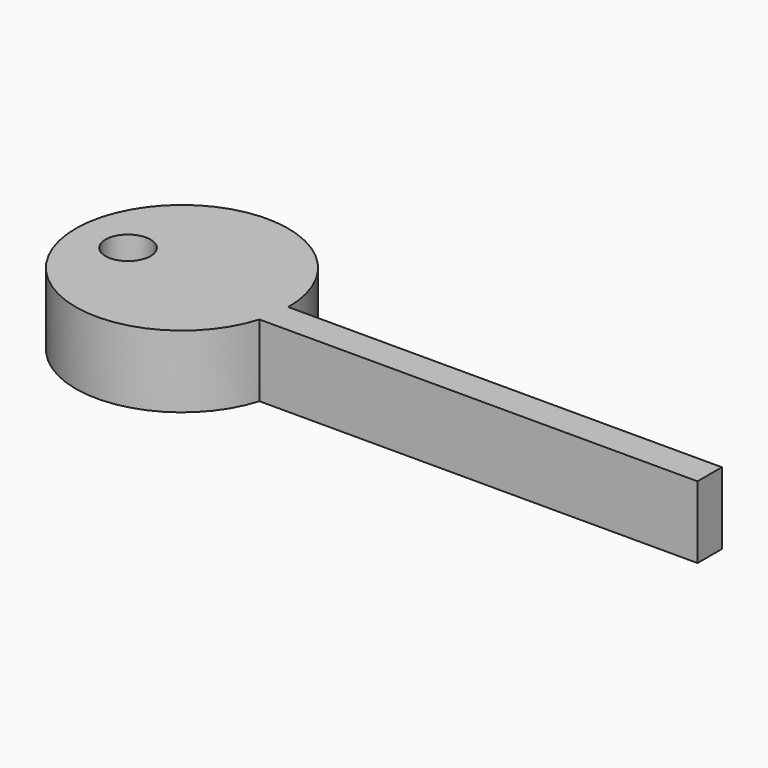
from build123d import *

# Parameters (mm, degrees)
F0_R     = 1.5875
F1_DEPTH = 5.08


with BuildPart() as f1:
    # F0 (on Top) → F1 (new body)
    with BuildSketch(Plane.XY):
        with BuildLine():
            Line((0, 0), (7.5, 0))
            ThreePointArc((7.5, 0), (-7.4207895641, 1.0871440774), (7.1848314013, -2.1513246465))
            Line((7.1848314013, -2.1513246465), (0, -2.1513246465))
            Line((0, -2.1513246465), (0, 0))
        make_face()
        with Locations((-3.81, 0)):
            Circle(F0_R, mode=Mode.SUBTRACT)
        with BuildLine():
            Line((38.1, 0), (7.5, 0))
            ThreePointArc((7.5, 0), (7.4207895641, -1.0871440774), (7.1848314013, -2.1513246465))
            Line((7.1848314013, -2.1513246465), (38.1, -2.1513246465))
            Line((38.1, -2.1513246465), (38.1, 0))
        make_face()
        with BuildLine():
            ThreePointArc((7.1848314013, -2.1513246465), (7.4207895641, -1.0871440774), (7.5, 0))
            Line((7.5, 0), (0, 0))
            Line((0, 0), (0, -2.1513246465))
            Line((0, -2.1513246465), (7.1848314013, -2.1513246465))
        make_face()
    extrude(amount=F1_DEPTH)


solid = f1.part
